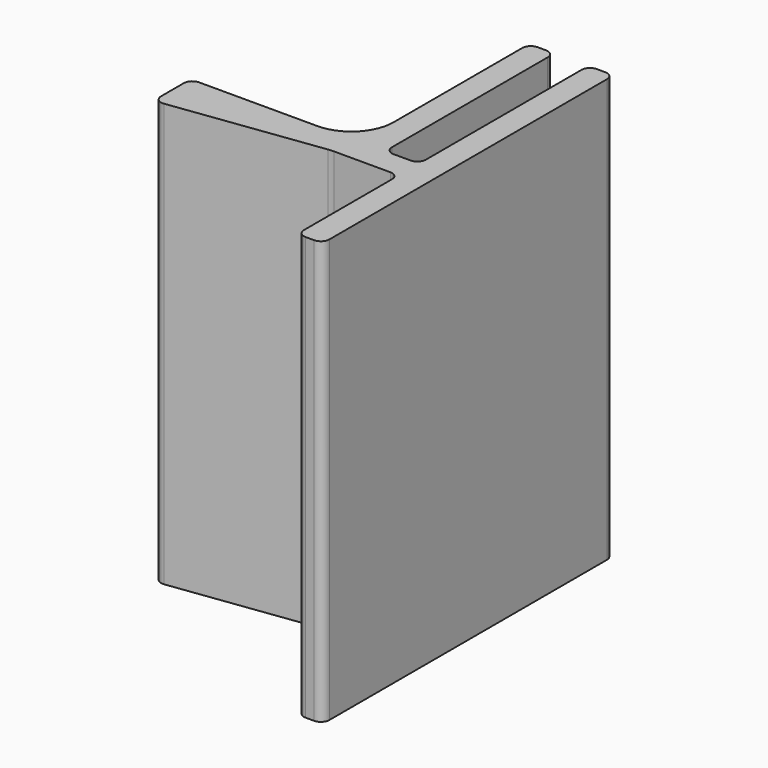
from build123d import *

# Parameters (mm, degrees)
F1_DEPTH = 50
F2_R     = 5
F3_R     = 1


with BuildPart() as f1:
    # F0 (on Top) → F1 (new body)
    with BuildSketch(Plane.XY):
        Polygon((0, 15), (0, 0), (3, 0), (3, 43), (0, 43), (0, 18), (-4, 18), (-4, 43), (-7, 43), (-7, 18), (-27, 18), (-27, 15), (-8, 15), align=None)
        Polygon((-27, 12.5), (-8, 15), (-27, 15), align=None)
    extrude(amount=F1_DEPTH)

    # F2
    f2_edges = [f1.edges().sort_by_distance(p)[0] for p in [
        (-8, 15, 25),
        (-7, 18, 25),
    ]]
    fillet(f2_edges, radius=F2_R)

    # F3
    f3_edges = [f1.edges().sort_by_distance(p)[0] for p in [
        (-7, 43, 25),
        (-4, 43, 25),
        (0, 43, 25),
        (3, 43, 25),
        (0, 0, 25),
        (3, 0, 25),
        (0, 15, 25),
        (-4, 18, 25),
        (0, 18, 25),
        (-27, 12.5, 25),
        (-27, 18, 25),
    ]]
    fillet(f3_edges, radius=F3_R)


solid = f1.part
